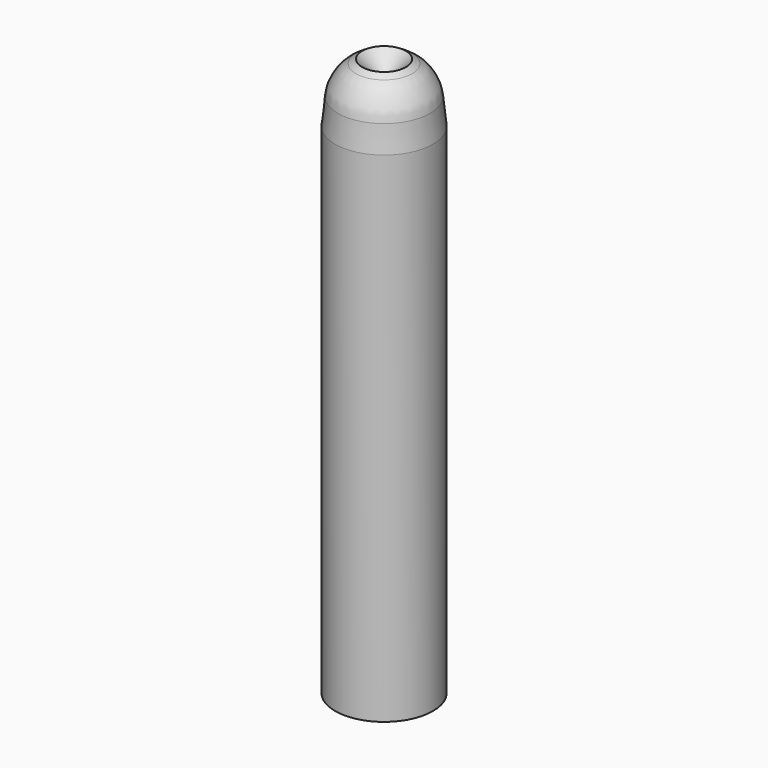
from build123d import *

# Parameters (mm, degrees)
F0_R     = 6.35
F1_DEPTH = 64.77
F5_R     = 3.175
F6_DEPTH = 57.912
F7_R     = 5.08


with BuildPart() as f1:
    # F0 (on Top) → F1 (new body)
    with BuildSketch(Plane.XY):
        Circle(F0_R)
    extrude(amount=F1_DEPTH)

    # F3 (on Front) → F4 (revolve)
    with BuildSketch(Plane.XZ):
        Polygon((0, 64.77), (0, 69.791943), (-2.845018, 72.444359), (-5.728471, 70.633823), (-6.35, 64.77), align=None)
    revolve(axis=Axis((0, 0, 36.195), (0, 0, 1)))

    # F5 (on face) → F6 (cut)
    with BuildSketch(Plane(origin=(0, 0, 0), x_dir=(1, 0, 0), z_dir=(0, 0, -1))):
        Circle(F5_R)
    extrude(amount=-F6_DEPTH, mode=Mode.SUBTRACT)

    # F7
    f7_edges = [f1.edges().sort_by_distance(p)[0] for p in [
        (5.728471, 0, 70.633823),
    ]]
    fillet(f7_edges, radius=F7_R)


solid = f1.part
